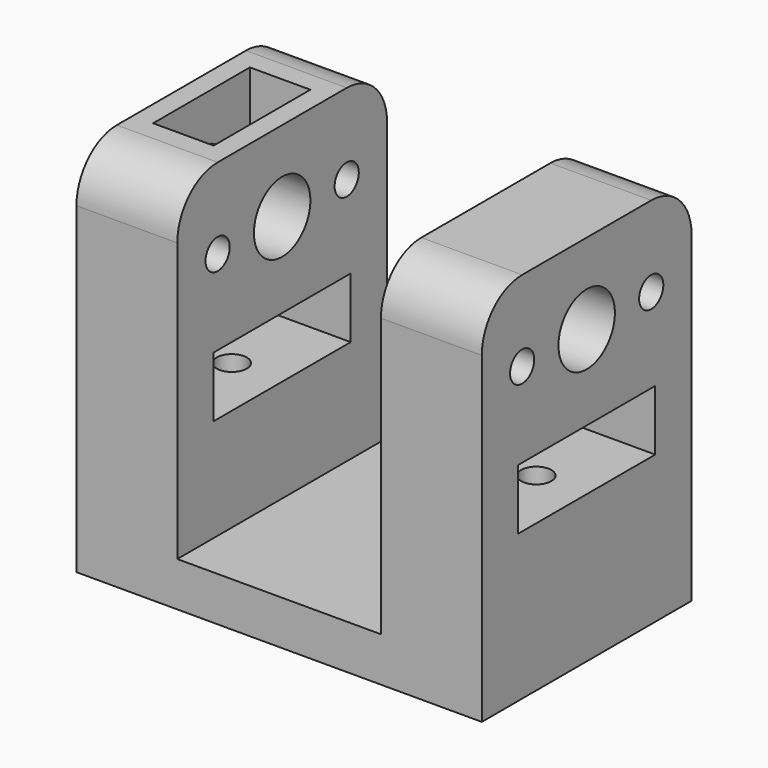
from build123d import *

# Parameters (mm, degrees)
F1_DEPTH  = 26
F2_W      = 17
F2_H      = 6
F3_DEPTH  = 40.2
F4_R      = 3.5
F5_DEPTH  = 40.2
F6_R      = 1.5
F7_DEPTH  = 20.6
F8_R      = 2.9
F9_DEPTH  = 10.6
F10_R     = 1.5
F11_DEPTH = 40.2
F12_W     = 6
F12_H     = 12
F13_DEPTH = 6
F14_W     = 1
F14_H     = 8
F15_DEPTH = 1
F16_R     = 5


with BuildPart() as f1:
    # F0 (on Front) → F1 (new body)
    with BuildSketch(Plane.XZ):
        Polygon((0, 37), (0, 0), (40.2, 0), (40.2, 37), (30.2, 37), (30.2, 4.4), (10, 4.4), (10, 37), align=None)
    extrude(amount=F1_DEPTH)

    # F2 (on face) → F3 (cut, through all)
    with BuildSketch(Plane.YZ.offset(40.2)):
        with Locations((-13, 17.6)):
            Rectangle(F2_W, F2_H)
    extrude(amount=-F3_DEPTH, mode=Mode.SUBTRACT)

    # F4 (on face) → F5 (cut, through all)
    with BuildSketch(Plane.YZ.offset(40.2)):
        with Locations((-13, 29)):
            Circle(F4_R)
    extrude(amount=-F5_DEPTH, mode=Mode.SUBTRACT)

    # F6 (on face) → F7 (cut, through all)
    with BuildSketch(Plane(origin=(0, 0, 0), x_dir=(1, 0, 0), z_dir=(0, 0, -1))):
        with Locations((5, 13)):
            Circle(F6_R)
        with Locations((35.2, 13)):
            Circle(F6_R)
    extrude(amount=-F7_DEPTH, mode=Mode.SUBTRACT)

    # F8 (on face) → F9 (cut)
    with BuildSketch(Plane(origin=(0, 0, 0), x_dir=(1, 0, 0), z_dir=(0, 0, -1))):
        with Locations((5, 13)):
            Circle(F8_R)
        with Locations((35.2, 13)):
            Circle(F8_R)
    extrude(amount=-F9_DEPTH, mode=Mode.SUBTRACT)

    # F10 (on face) → F11 (cut, through all)
    with BuildSketch(Plane(origin=(0, 0, 0), x_dir=(0, -1, 0), z_dir=(-1, 0, 0))):
        with Locations((5, 29)):
            Circle(F10_R)
        with Locations((21, 29)):
            Circle(F10_R)
    extrude(amount=-F11_DEPTH, mode=Mode.SUBTRACT)

    # F12 (on face) → F13 (cut)
    with BuildSketch(Plane.XY.offset(37)):
        with Locations((5, -13)):
            Rectangle(F12_W, F12_H)
    extrude(amount=-F13_DEPTH, mode=Mode.SUBTRACT)

    # F14 (on face) → F15 (cut)
    with BuildSketch(Plane.XY.offset(31)):
        with Locations((5, -13)):
            Rectangle(F14_W, F14_H)
    extrude(amount=-F15_DEPTH, mode=Mode.SUBTRACT)

    # F16
    f16_edges = [f1.edges().sort_by_distance(p)[0] for p in [
        (5, -26, 37),
        (5, 0, 37),
        (35.2, 0, 37),
        (35.2, -26, 37),
    ]]
    fillet(f16_edges, radius=F16_R)


solid = f1.part
